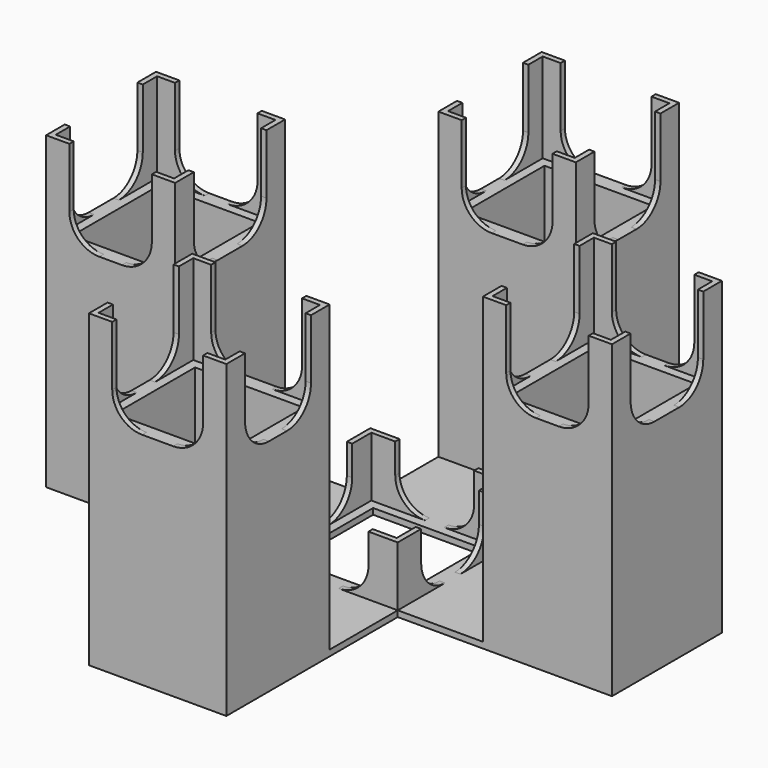
from build123d import *

# Parameters (mm, degrees)
PAD_DEPTH     = 2
SKETCH001_W   = 43.2
SKETCH001_H   = 46
SKETCH001_W_2 = 46
SKETCH001_H_2 = 43.2
PAD001_DEPTH  = 71.7
PAD002_DEPTH  = 20
PAD003_DEPTH  = 30
SKETCH004_W   = 36.4
SKETCH004_H   = 33.6
SKETCH004_W_2 = 33.6
SKETCH004_H_2 = 36.4
POCKET_DEPTH  = 103.701
FILLET_R      = 10


with BuildPart() as part:
    # Sketch → Pad (new body)
    with BuildSketch(Plane.XY):
        Polygon((-51.5, 23), (-94.7, 23), (-94.7, -23), (-51.5, -23), (-23, -23), (-23, -51.5), (-23, -94.7), (23, -94.7), (23, -51.5), (23, -23), (51.5, -23), (94.7, -23), (94.7, 23), (51.5, 23), (23, 23), (23, 51.5), (23, 94.298633), (-23, 94.298633), (-23, 51.098633), (-23, 23), align=None)
    extrude(amount=PAD_DEPTH)

    # Sketch001 → Pad001 (new body)
    with BuildSketch(Plane.XY.offset(2)):
        with Locations((-73.1, 0)):
            Rectangle(SKETCH001_W, SKETCH001_H)
        with Locations((73.1, 0)):
            Rectangle(SKETCH001_W, SKETCH001_H)
        with Locations((0, 73.1)):
            Rectangle(SKETCH001_W_2, SKETCH001_H_2)
        with Locations((0, -73.1)):
            Rectangle(SKETCH001_W_2, SKETCH001_H_2)
    extrude(amount=PAD001_DEPTH)

    # Sketch002 → Pad002 (new body)
    with BuildSketch(Plane.XY.offset(2)):
        Polygon((-23, 23), (-23, 13.2), (-21.2, 13.2), (-21.2, 21.2), (-13.2, 21.2), (-13.2, 23), align=None)
        Polygon((21.2, 21.2), (13.2, 21.2), (13.2, 23), (23, 23), (23, 13.2), (21.2, 13.2), align=None)
        Polygon((23, -23), (23, -13.2), (21.2, -13.2), (21.2, -21.2), (13.2, -21.2), (13.2, -23), align=None)
        Polygon((-21.2, -21.2), (-21.2, -13.2), (-23, -13.2), (-23, -23), (-13.2, -23), (-13.2, -21.2), align=None)
    extrude(amount=PAD002_DEPTH)

    # Sketch003 → Pad003 (new body)
    with BuildSketch(Plane.XY.offset(73.7)):
        Polygon((-94.7, 23), (-94.7, 15.2), (-92.9, 15.2), (-92.9, 21.2), (-86.9, 21.2), (-86.9, 23), align=None)
        Polygon((-51.5, 23), (-59.3, 23), (-59.3, 21.2), (-53.3, 21.2), (-53.3, 15.2), (-51.5, 15.2), align=None)
        Polygon((-92.9, -15.2), (-92.9, -21.2), (-86.9, -21.2), (-86.9, -23), (-94.7, -23), (-94.7, -15.2), align=None)
        Polygon((-51.5, -23), (-51.5, -15.2), (-53.3, -15.2), (-53.3, -21.2), (-59.3, -21.2), (-59.3, -23), align=None)
        Polygon((-23, -59.3), (-23, -51.5), (-15.2, -51.5), (-15.2, -53.3), (-21.2, -53.3), (-21.2, -59.3), align=None)
        Polygon((-23, -94.7), (-23, -86.9), (-21.2, -86.9), (-21.2, -92.9), (-15.2, -92.9), (-15.2, -94.7), align=None)
        Polygon((15.2, -51.5), (23, -51.5), (23, -59.3), (21.2, -59.3), (21.2, -53.3), (15.2, -53.3), align=None)
        Polygon((23, -94.7), (15.2, -94.7), (15.2, -92.9), (21.2, -92.9), (21.2, -86.9), (23, -86.9), align=None)
        Polygon((51.5, 23), (51.5, 15.2), (53.3, 15.2), (53.3, 21.2), (59.3, 21.2), (59.3, 23), align=None)
        Polygon((94.7, 23), (86.9, 23), (86.9, 21.2), (92.9, 21.2), (92.9, 15.2), (94.7, 15.2), align=None)
        Polygon((51.5, -23), (51.5, -15.2), (53.3, -15.2), (53.3, -21.2), (59.3, -21.2), (59.3, -23), align=None)
        Polygon((94.7, -23), (86.9, -23), (86.9, -21.2), (92.9, -21.2), (92.9, -15.2), (94.7, -15.2), align=None)
        Polygon((-23, 51.5), (-23, 59.3), (-21.2, 59.3), (-21.2, 53.3), (-15.2, 53.3), (-15.2, 51.5), align=None)
        Polygon((15.2, 51.5), (15.2, 53.3), (21.2, 53.3), (21.2, 59.3), (23, 59.3), (23, 51.5), align=None)
        Polygon((15.2, 94.7), (23, 94.7), (23, 86.9), (21.2, 86.9), (21.2, 92.9), (15.2, 92.9), align=None)
        Polygon((-15.2, 94.7), (-15.2, 92.9), (-21.2, 92.9), (-21.2, 86.9), (-23, 86.9), (-23, 94.7), align=None)
    extrude(amount=PAD003_DEPTH)

    # Sketch004 → Pocket (cut, through all)
    with BuildSketch(Plane(origin=(0, 0, 0), x_dir=(1, 0, 0), z_dir=(0, 0, -1))):
        with Locations((0, 73.1)):
            Rectangle(SKETCH004_W, SKETCH004_H)
        with Locations((0, -73.1)):
            Rectangle(SKETCH004_W, SKETCH004_H)
        with Locations((-73.1, 0)):
            Rectangle(SKETCH004_W_2, SKETCH004_H_2)
        with Locations((73.1, 0)):
            Rectangle(SKETCH004_W_2, SKETCH004_H_2)
        Rectangle(SKETCH004_W, SKETCH004_H_2)
    extrude(amount=-POCKET_DEPTH, mode=Mode.SUBTRACT)

    # Fillet
    fillet_edges = [part.edges().sort_by_distance(p)[0] for p in [
        (15.2, 93.8, 73.7),
        (15.2, 52.4, 73.7),
        (15.2, -52.4, 73.7),
        (15.2, -93.8, 73.7),
        (86.9, -22.1, 73.7),
        (86.9, 22.1, 73.7),
        (-59.3, -22.1, 73.7),
        (-59.3, 22.1, 73.7),
        (22.1, 59.3, 73.7),
        (-22.1, 59.3, 73.7),
        (-93.8, -15.2, 73.7),
        (-52.4, -15.2, 73.7),
        (-22.1, -86.9, 73.7),
        (22.1, -86.9, 73.7),
        (52.4, -15.2, 73.7),
        (93.8, -15.2, 73.7),
        (-15.2, -93.8, 73.7),
        (-15.2, -52.4, 73.7),
        (-86.9, -22.1, 73.7),
        (-86.9, 22.1, 73.7),
        (-15.2, 52.4, 73.7),
        (-15.2, 93.8, 73.7),
        (59.3, 22.1, 73.7),
        (59.3, -22.1, 73.7),
        (-22.1, 86.9, 73.7),
        (22.1, 86.9, 73.7),
        (52.4, 15.2, 73.7),
        (93.8, 15.2, 73.7),
        (22.1, -59.3, 73.7),
        (-22.1, -59.3, 73.7),
        (-52.4, 15.2, 73.7),
        (-93.8, 15.2, 73.7),
        (13.2, -22.1, 2),
        (22.1, -13.2, 2),
        (22.1, 13.2, 2),
        (-22.1, 13.2, 2),
        (13.2, 22.1, 2),
        (-13.2, 22.1, 2),
        (-13.2, -22.1, 2),
        (-22.1, -13.2, 2),
    ]]
    fillet(fillet_edges, radius=FILLET_R)


solid = part.part
